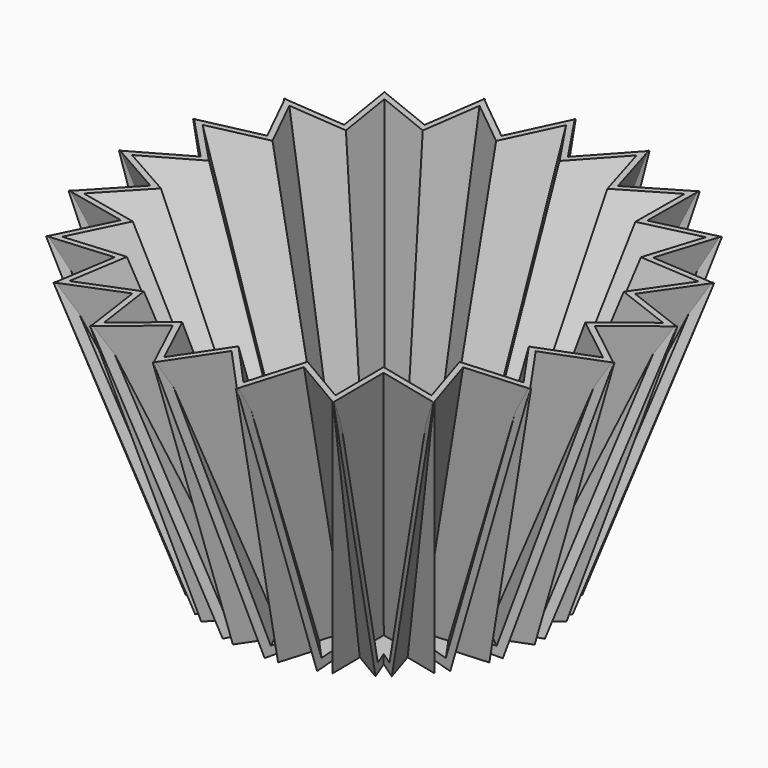
from build123d import *

# Parameters (mm, degrees)
F4_COUNT = 21


with BuildPart() as f2:
    # F2: sweep along a path in F1
    with BuildLine(Plane.XY) as f2_path:
        Line((0, 0), (4.2697745375, 3.3501815051))
    # F0 (on Front) → F2 (sweep)
    with BuildSketch(Plane.XZ):
        Polygon((0, 0.75), (0, 0), (8.40777345, 0), (17.7297703922, 24.8893443495), (16.9288917275, 24.8893443495), (7.8877980348, 0.75), align=None)
    sweep(path=f2_path.line)

    # F3: F2 across face


with BuildPart() as f2_1:
    add(f2.part)
    add(f2.part.mirror(Plane.XZ))

    # F4: F2 ×21 about axis
    f4_axis = Axis((0, 0, 1.0500000276), (0, 0, -1))


with BuildPart() as f2_2:
    add(f2_1.part)
    for i in range(1, F4_COUNT):
        add(f2_1.part.rotate(f4_axis, i * 360 / F4_COUNT))


solid = f2_2.part
